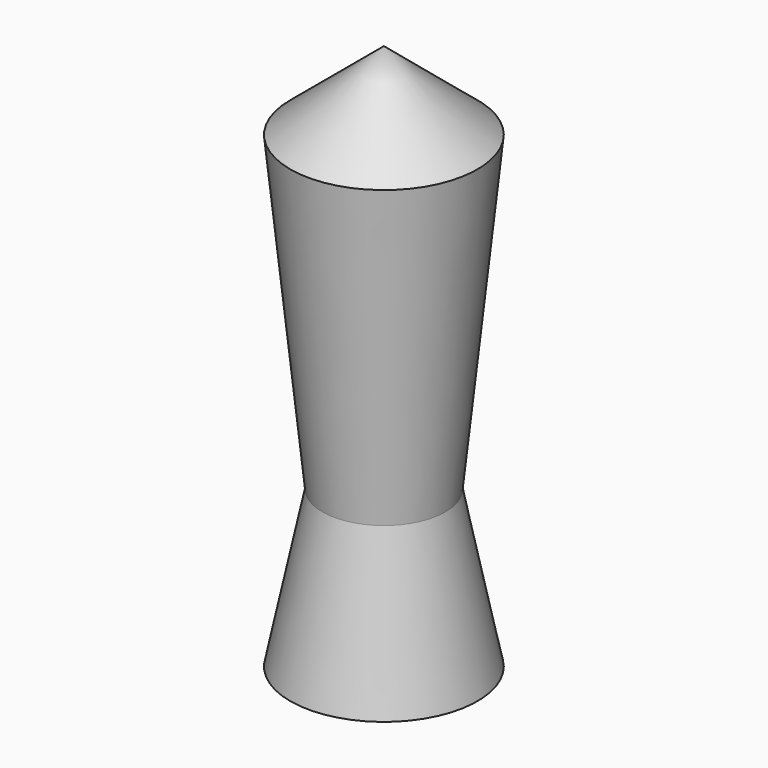
from build123d import *


with BuildPart() as f1:
    # F0 (on Front) → F1 (revolve)
    with BuildSketch(Plane.XZ):
        Polygon((-15.24, 0), (0, 0), (0, 25.4), (-10.009022, 25.4), align=None)
    revolve(axis=Axis((0, 0, 12.7), (0, 0, -1)))

    # F2 (on Front) → F3 (revolve)
    with BuildSketch(Plane.XZ):
        Polygon((-15.24, 76.2), (-10.009022, 25.4), (0, 25.4), (0, 76.2), align=None)
    revolve(axis=Axis((0, 0, 50.8), (0, 0, 1)))

    # F4 (on Front) → F5 (revolve)
    with BuildSketch(Plane.XZ):
        Polygon((-15.24, 76.2), (0, 76.2), (0, 88.9), align=None)
    revolve(axis=Axis((0, 0, 82.55), (0, 0, 1)))


solid = f1.part
